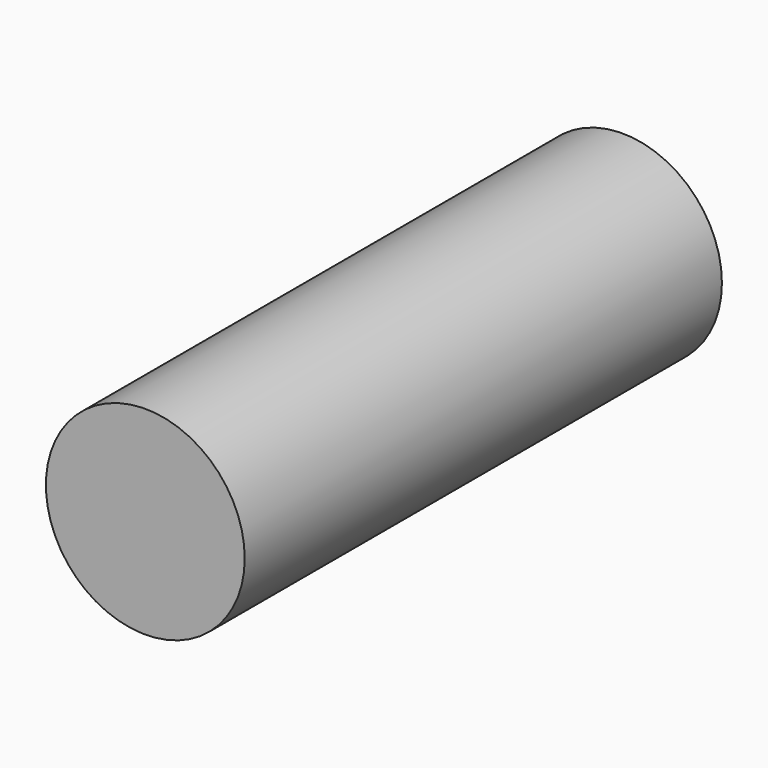
from build123d import *

# Parameters (mm, degrees)
F0_R          = 25.4
F1_DEPTH      = 76.2
F1_DEPTH_BACK = 76.2


with BuildPart() as f1:
    # F0 (on Front) → F1 (new body, two sides)
    with BuildSketch(Plane.XZ) as f1_sk:
        with Locations((-42.867042, 38.796581)):
            Circle(F0_R)
    extrude(amount=F1_DEPTH)
    extrude(f1_sk.sketch, amount=-F1_DEPTH_BACK)


solid = f1.part
